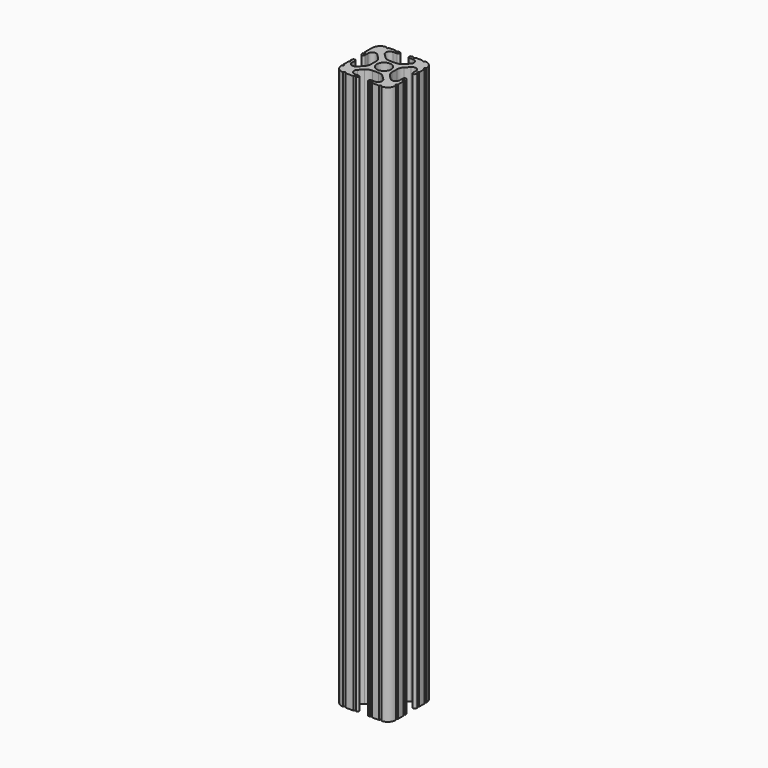
from build123d import *

# Parameters (mm, degrees)
F0_R     = 3.362501
F1_DEPTH = 260.35


with BuildPart() as f1:
    # F0 (on Top) → F1 (new body)
    with BuildSketch(Plane.XY):
        with BuildLine():
            ThreePointArc((-8.548576, 18.755238), (-9.784629, 17.929334), (-11.242653, 17.639315))
            Line((-11.242653, 17.639315), (-14.157347, 17.639315))
            ThreePointArc((-14.157347, 17.639315), (-15.615371, 17.929334), (-16.851424, 18.755238))
            Line((-16.851424, 18.755238), (-18.696905, 20.600719))
            ThreePointArc((-18.696905, 20.600719), (-19.109857, 22.67677), (-17.349867, 23.852758))
            Line((-17.349867, 23.852758), (-15.615371, 23.852758))
            Line((-15.615371, 23.852758), (-15.58302, 23.852758))
            ThreePointArc((-15.58302, 23.852758), (-14.825405, 24.626379), (-15.58302, 25.4))
            Line((-15.58302, 25.4), (-15.615371, 25.4))
            Line((-15.615371, 25.4), (-16.253341, 25.4))
            ThreePointArc((-16.253341, 25.4), (-16.801604, 24.858772), (-17.349867, 25.4))
            Line((-17.349867, 25.4), (-20.487482, 25.4))
            ThreePointArc((-20.487482, 25.4), (-21.038741, 24.848741), (-21.59, 25.4))
            ThreePointArc((-21.59, 25.4), (-24.284077, 24.284077), (-25.4, 21.59))
            Line((-25.4, 21.59), (-25.4, 20.504724))
            Line((-25.4, 20.504724), (-25.4, 17.349867))
            ThreePointArc((-25.4, 17.349867), (-24.844161, 16.802675), (-25.4, 16.255483))
            Line((-25.4, 16.255483), (-25.4, 15.615371))
            ThreePointArc((-25.4, 15.615371), (-24.626379, 14.859554), (-23.852758, 15.615371))
            Line((-23.852758, 15.615371), (-23.852758, 17.349867))
            ThreePointArc((-23.852758, 17.349867), (-22.67677, 19.109857), (-20.600719, 18.696905))
            Line((-20.600719, 18.696905), (-18.755238, 16.851424))
            ThreePointArc((-18.755238, 16.851424), (-17.929334, 15.615371), (-17.639315, 14.157347))
            Line((-17.639315, 14.157347), (-17.639315, 11.242653))
            ThreePointArc((-17.639315, 11.242653), (-17.929334, 9.784629), (-18.755238, 8.548576))
            Line((-18.755238, 8.548576), (-20.600719, 6.703095))
            ThreePointArc((-20.600719, 6.703095), (-22.67677, 6.290143), (-23.852758, 8.050133))
            Line((-23.852758, 8.050133), (-23.852758, 9.784629))
            ThreePointArc((-23.852758, 9.784629), (-24.626379, 10.55825), (-25.4, 9.784629))
            Line((-25.4, 9.784629), (-25.4, 9.149239))
            ThreePointArc((-25.4, 9.149239), (-24.899374, 8.599686), (-25.4, 8.050133))
            Line((-25.4, 8.050133), (-25.4, 4.904538))
            ThreePointArc((-25.4, 4.904538), (-24.846216, 4.357269), (-25.4, 3.81))
            ThreePointArc((-25.4, 3.81), (-24.284077, 1.115923), (-21.59, 0))
            ThreePointArc((-21.59, 0), (-21.040817, 0.554885), (-20.491634, 0))
            Line((-20.491634, 0), (-16.708169, 0))
            ThreePointArc((-16.708169, 0), (-16.16177, 0.540135), (-15.615371, 0))
            ThreePointArc((-15.615371, 0), (-14.854184, 0.7747), (-15.615371, 1.5494))
            Line((-15.615371, 1.5494), (-17.347709, 1.5494))
            ThreePointArc((-17.347709, 1.5494), (-19.107699, 2.725388), (-18.694747, 4.801438))
            Line((-18.694747, 4.801438), (-16.851424, 6.644762))
            ThreePointArc((-16.851424, 6.644762), (-15.615371, 7.470666), (-14.157347, 7.760685))
            Line((-14.157347, 7.760685), (-11.242653, 7.760685))
            ThreePointArc((-11.242653, 7.760685), (-9.784629, 7.470666), (-8.548576, 6.644762))
            Line((-8.548576, 6.644762), (-6.705253, 4.801438))
            ThreePointArc((-6.705253, 4.801438), (-6.292301, 2.725388), (-8.052291, 1.5494))
            Line((-8.052291, 1.5494), (-9.784629, 1.5494))
            ThreePointArc((-9.784629, 1.5494), (-10.401836, 0.7747), (-9.784629, 0))
            Line((-9.784629, 0), (-9.152868, 0))
            ThreePointArc((-9.152868, 0), (-8.602579, 0.545262), (-8.052291, 0))
            Line((-8.052291, 0), (-4.898866, 0))
            ThreePointArc((-4.898866, 0), (-4.354433, 0.544433), (-3.81, 0))
            ThreePointArc((-3.81, 0), (-1.115923, 1.115923), (0, 3.81))
            ThreePointArc((0, 3.81), (-0.53938, 4.3561), (0, 4.9022))
            Line((0, 4.9022), (0, 8.052291))
            ThreePointArc((0, 8.052291), (-0.543517, 8.60166), (0, 9.151029))
            Line((0, 9.151029), (0, 9.784629))
            ThreePointArc((0, 9.784629), (-0.7747, 10.504691), (-1.5494, 9.784629))
            Line((-1.5494, 9.784629), (-1.5494, 8.052291))
            ThreePointArc((-1.5494, 8.052291), (-2.725388, 6.292301), (-4.801438, 6.705253))
            Line((-4.801438, 6.705253), (-6.644762, 8.548576))
            ThreePointArc((-6.644762, 8.548576), (-7.470666, 9.784629), (-7.760685, 11.242653))
            Line((-7.760685, 11.242653), (-7.760685, 14.157347))
            ThreePointArc((-7.760685, 14.157347), (-7.470666, 15.615371), (-6.644762, 16.851424))
            Line((-6.644762, 16.851424), (-4.801438, 18.694747))
            ThreePointArc((-4.801438, 18.694747), (-2.725388, 19.107699), (-1.5494, 17.347709))
            Line((-1.5494, 17.347709), (-1.5494, 15.615371))
            ThreePointArc((-1.5494, 15.615371), (-0.7747, 14.879405), (0, 15.615371))
            Line((0, 15.615371), (0, 16.255509))
            ThreePointArc((0, 16.255509), (-0.5461, 16.801609), (0, 17.347709))
            Line((0, 17.347709), (0, 20.495165))
            ThreePointArc((0, 20.495165), (-0.551056, 21.042583), (0, 21.59))
            ThreePointArc((0, 21.59), (-1.115923, 24.284077), (-3.81, 25.4))
            ThreePointArc((-3.81, 25.4), (-4.365303, 24.903619), (-4.920606, 25.4))
            Line((-4.920606, 25.4), (-8.050133, 25.4))
            ThreePointArc((-8.050133, 25.4), (-8.596365, 24.859433), (-9.142596, 25.4))
            Line((-9.142596, 25.4), (-9.784629, 25.4))
            Line((-9.784629, 25.4), (-9.856203, 25.4))
            ThreePointArc((-9.856203, 25.4), (-10.594864, 24.626379), (-9.856203, 23.852758))
            Line((-9.856203, 23.852758), (-9.784629, 23.852758))
            Line((-9.784629, 23.852758), (-8.050133, 23.852758))
            ThreePointArc((-8.050133, 23.852758), (-6.290143, 22.67677), (-6.703095, 20.600719))
            Line((-6.703095, 20.600719), (-8.548576, 18.755238))
        make_face()
        with Locations((-12.7, 12.7)):
            Circle(F0_R, mode=Mode.SUBTRACT)
        with BuildLine():
            ThreePointArc((-9.856203, 23.852758), (-9.820416, 23.851931), (-9.784629, 23.852758))
            Line((-9.784629, 23.852758), (-9.856203, 23.852758))
        make_face()
        with BuildLine():
            Line((-15.58302, 23.852758), (-15.615371, 23.852758))
            ThreePointArc((-15.615371, 23.852758), (-15.599195, 23.852589), (-15.58302, 23.852758))
        make_face()
        with BuildLine():
            ThreePointArc((-9.784629, 25.4), (-9.820416, 25.400827), (-9.856203, 25.4))
            Line((-9.856203, 25.4), (-9.784629, 25.4))
        make_face()
        with BuildLine():
            Line((-15.615371, 25.4), (-15.58302, 25.4))
            ThreePointArc((-15.58302, 25.4), (-15.599195, 25.400169), (-15.615371, 25.4))
        make_face()
    extrude(amount=F1_DEPTH)


solid = f1.part
